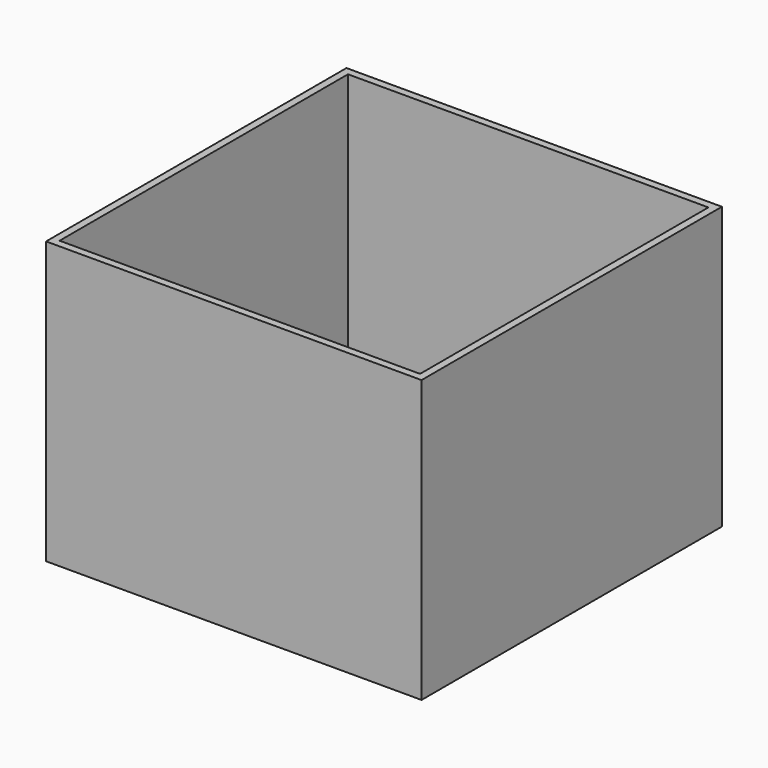
from build123d import *

# Parameters (mm, degrees)
F0_W     = 20
F0_H     = 20
F1_DEPTH = 15
F2_T     = -0.4


with BuildPart() as f1:
    # F0 (on Top) → F1 (new body)
    with BuildSketch(Plane.XY):
        Rectangle(F0_W, F0_H)
    extrude(amount=F1_DEPTH)

    # F2
    f2_openings = [f1.faces().sort_by_distance(p)[0] for p in [
        (0, 0, 15),
        (0, 0, 0),
    ]]
    offset(amount=F2_T, openings=f2_openings)


solid = f1.part
